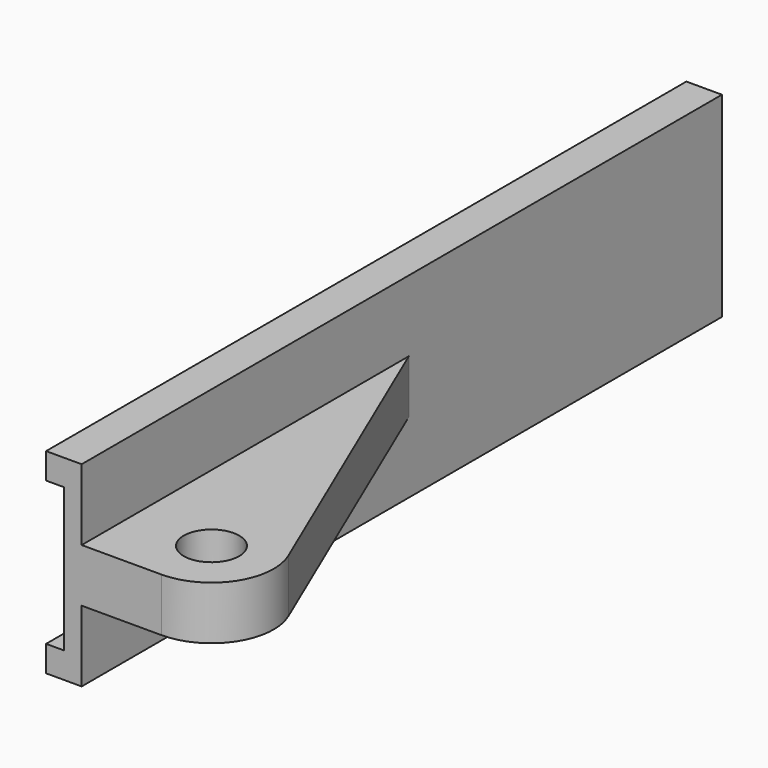
from build123d import *

# Parameters (mm, degrees)
F0_R     = 4.953
F1_DEPTH = 4.7625
F2_DEPTH = 17.4625
F3_W     = 142.875
F3_H     = 25.654
F4_DEPTH = 3.175
F6_DEPTH = 4.7625
F8_DEPTH = 4.7625


with BuildPart() as f1:
    # F0 (on Top) → F1 (new body, symmetric)
    with BuildSketch(Plane.XY):
        with BuildLine():
            ThreePointArc((9.746036, 5.338768), (5.663947, 9.56072), (0, 11.1125))
            Line((0, 11.1125), (-14.2875, 11.1125))
            Line((-14.2875, 11.1125), (-14.2875, -11.1125))
            Line((-14.2875, -11.1125), (0, -11.1125))
            ThreePointArc((0, -11.1125), (9.56072, -5.663947), (9.746036, 5.338768))
        make_face()
        Circle(F0_R, mode=Mode.SUBTRACT)
    extrude(amount=F1_DEPTH, both=True)

    # F0 (on Top) → F2 (join, symmetric)
    with BuildSketch(Plane.XY):
        Polygon((-14.2875, -11.1125), (-14.2875, 11.1125), (-14.2875, 49.2125), (-14.2875, 131.7625), (-20.6375, 131.7625), (-20.6375, -11.1125), align=None)
    extrude(amount=F2_DEPTH, both=True)

    # F3 (on face) → F4 (cut)
    with BuildSketch(Plane(origin=(-20.6375, 0, 0), x_dir=(0, -1, 0), z_dir=(-1, 0, 0))):
        with Locations((-60.325, 0)):
            Rectangle(F3_W, F3_H)
    extrude(amount=-F4_DEPTH, mode=Mode.SUBTRACT)

    # F5 (on Top) → F8 (join, symmetric)
    with BuildSketch(Plane.XY):
        with BuildLine():
            Line((-14.2875, 11.1125), (0, 11.1125))
            ThreePointArc((0, 11.1125), (6.127987, 9.270136), (10.224032, 4.353943))
            Line((10.224032, 4.353943), (-14.2875, 61.9125))
            Line((-14.2875, 61.9125), (-14.2875, 11.1125))
        make_face()
    extrude(amount=F8_DEPTH, both=True)


with BuildPart() as f6:
    # F5 (on Top) → F6 (new body, symmetric)
    with BuildSketch(Plane.XY):
        with BuildLine():
            Line((-14.2875, 11.1125), (0, 11.1125))
            ThreePointArc((0, 11.1125), (6.127987, 9.270136), (10.224032, 4.353943))
            Line((10.224032, 4.353943), (-14.2875, 61.9125))
            Line((-14.2875, 61.9125), (-14.2875, 11.1125))
        make_face()
    extrude(amount=F6_DEPTH, both=True)


solid = f1.part
